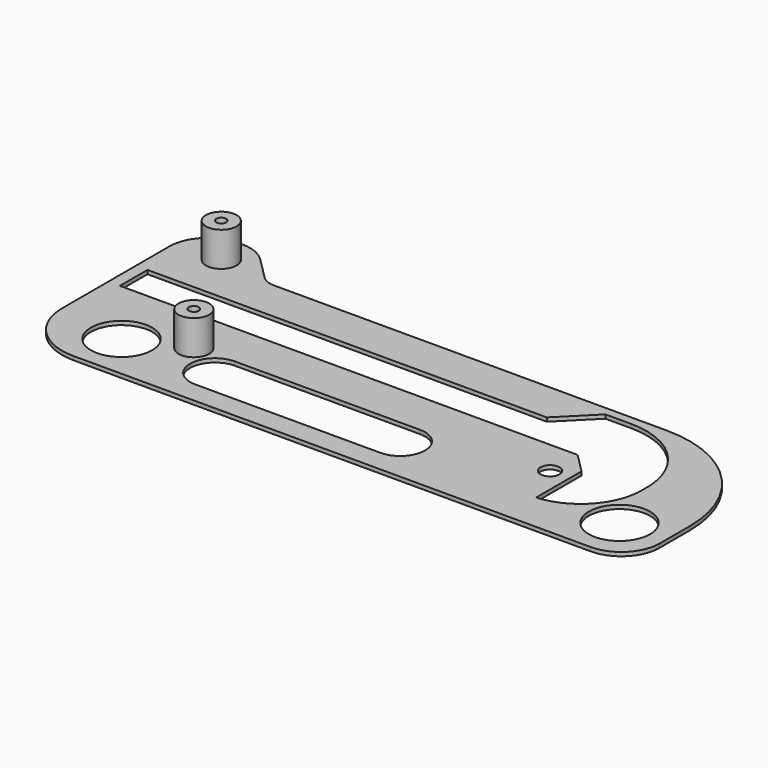
from build123d import *

# Parameters (mm, degrees)
SKETCH001_R   = 2.5
SKETCH001_R_2 = 8
PAD_DEPTH     = 1
SKETCH003_R   = 4
PAD001_DEPTH  = 9
SKETCH004_R   = 1.3
POCKET_DEPTH  = 9
FILLET_R      = 10
FILLET001_R   = 15
FILLET002_R   = 30
FILLET003_R   = 10
FILLET004_R   = 10
FILLET005_R   = 5


with BuildPart() as part:
    # Sketch001 → Pad (new body)
    with BuildSketch(Plane.XY):
        Polygon((43.04995, 229.318703), (43.04995, 179.449575), (-116.95005, 179.449575), (-116.95005, 239.449575), (-101.796377, 239.449575), (-91.665504, 229.318703), align=None)
        with Locations((5.54995, 200.560838)):
            Circle(SKETCH001_R, mode=Mode.SUBTRACT)
        with Locations((-99.039165, 191.452072)):
            Circle(SKETCH001_R_2, mode=Mode.SUBTRACT)
        with Locations((30.960835, 191.452072)):
            Circle(SKETCH001_R_2, mode=Mode.SUBTRACT)
        with BuildLine():
            ThreePointArc((25.54995, 206.028969), (20.061493, 220.835101), (5.54995, 227.060838))
            Line((-1.19441, 227.060838), (5.54995, 227.060838))
            Line((-9.694456, 218.560838), (-1.19441, 227.060838))
            Line((-113.95005, 218.561117), (-9.694456, 218.560838))
            Line((-113.95005, 218.561117), (-113.95005, 209.560838))
            Line((-113.95005, 209.560838), (-9.618024, 209.560838))
            Line((-9.618024, 209.560838), (5.54995, 209.560838))
            Line((5.54995, 209.560838), (10.697892, 204.412896))
            Line((10.697892, 189.560838), (10.697892, 204.412896))
            ThreePointArc((10.697892, 189.560838), (21.441031, 194.803313), (25.54995, 206.028969))
        make_face(mode=Mode.SUBTRACT)
        with BuildLine():
            ThreePointArc((-74.793427, 198.14003), (-81.282837, 191.65062), (-74.793427, 185.16121))
            Line((-74.793427, 185.16121), (-26.440948, 185.16121))
            ThreePointArc((-26.440948, 185.16121), (-19.951538, 191.65062), (-26.440948, 198.14003))
            Line((-74.793427, 198.14003), (-26.440948, 198.14003))
        make_face(mode=Mode.SUBTRACT)
    extrude(amount=PAD_DEPTH)

    # Sketch003 (on Face25 of Pad) → Pad001 (join)
    with BuildSketch(Plane.XY.offset(1)):
        with Locations((-104.963402, 231.408722)):
            Circle(SKETCH003_R)
        with Locations((-84.957718, 197.452713)):
            Circle(SKETCH003_R)
    extrude(amount=PAD001_DEPTH)

    # Sketch004 (on Face29 of Pad001) → Pocket (cut)
    with BuildSketch(Plane.XY.offset(10)):
        with Locations((-105.002731, 231.45459)):
            Circle(SKETCH004_R)
        with Locations((-84.991737, 197.493057)):
            Circle(SKETCH004_R)
    extrude(amount=-POCKET_DEPTH, mode=Mode.SUBTRACT)

    # Fillet
    fillet_edges = [part.edges().sort_by_distance(p)[0] for p in [
        (43.04995, 179.449575, 0.5),
    ]]
    fillet(fillet_edges, radius=FILLET_R)

    # Fillet001
    fillet001_edges = [part.edges().sort_by_distance(p)[0] for p in [
        (-116.95005, 179.449575, 0.5),
    ]]
    fillet(fillet001_edges, radius=FILLET001_R)

    # Fillet002
    fillet002_edges = [part.edges().sort_by_distance(p)[0] for p in [
        (43.04995, 229.318703, 0.5),
    ]]
    fillet(fillet002_edges, radius=FILLET002_R)

    # Fillet003
    fillet003_edges = [part.edges().sort_by_distance(p)[0] for p in [
        (-101.796377, 239.449575, 0.5),
    ]]
    fillet(fillet003_edges, radius=FILLET003_R)

    # Fillet004
    fillet004_edges = [part.edges().sort_by_distance(p)[0] for p in [
        (-116.95005, 239.449575, 0.5),
    ]]
    fillet(fillet004_edges, radius=FILLET004_R)

    # Fillet005
    fillet005_edges = [part.edges().sort_by_distance(p)[0] for p in [
        (-91.665504, 229.318703, 0.5),
    ]]
    fillet(fillet005_edges, radius=FILLET005_R)


solid = part.part
